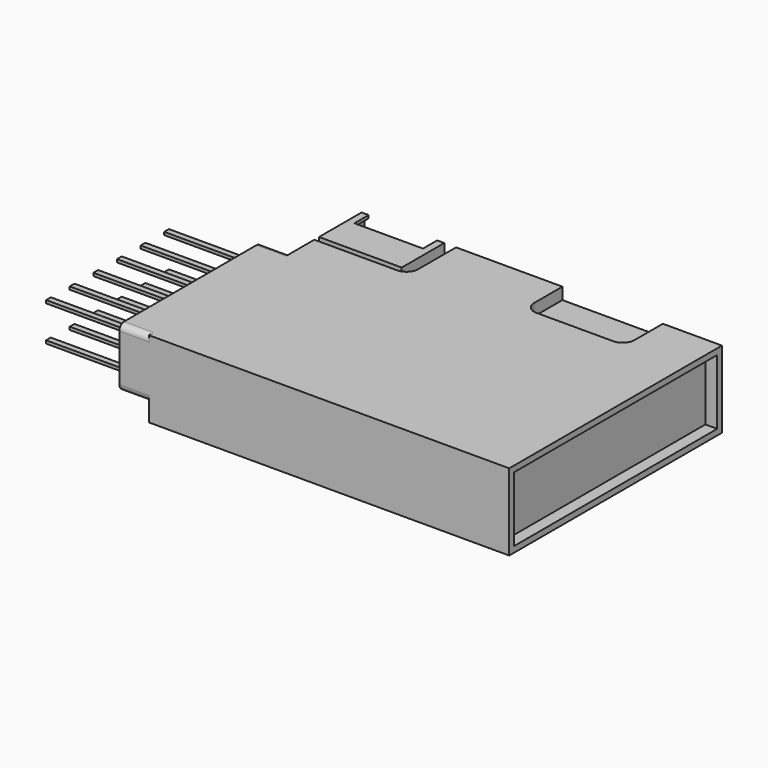
from build123d import *

# Parameters (mm, degrees)
F0_W      = 30.5
F0_H      = 22.5
F1_DEPTH  = 6.5
F3_DEPTH  = 3
F4_W      = 7
F4_H      = 4.5
F5_DEPTH  = 3
F6_W      = 6.5
F6_H      = 2.5
F7_DEPTH  = 3.75
F8_W      = 5.8
F8_H      = 1.5
F9_DEPTH  = 0.5
F11_DEPTH = 1
F13_DEPTH = 2.5
F14_W     = 0.5
F14_H     = 0.25
F15_DEPTH = 7
F16_W     = 21.5
F16_H     = 5.5
F17_DEPTH = 1


with BuildPart() as f1:
    # F0 (on Top) → F1 (new body)
    with BuildSketch(Plane.XY):
        Rectangle(F0_W, F0_H)
    extrude(amount=F1_DEPTH)

    # F2 (on face) → F3 (cut)
    with BuildSketch(Plane.XY.offset(6.5)):
        with BuildLine():
            Line((-7.25, 11.25), (-15.25, 11.25))
            Line((-15.25, 11.25), (-15.25, 6.25))
            Line((-15.25, 6.25), (-8.25, 6.25))
            ThreePointArc((-8.25, 6.25), (-7.542893, 6.542893), (-7.25, 7.25))
            Line((-7.25, 7.25), (-7.25, 11.25))
        make_face()
    extrude(amount=-F3_DEPTH, mode=Mode.SUBTRACT)

    # F4 (on face) → F5 (join)
    with BuildSketch(Plane.XY.offset(3.5)):
        with Locations((-11.75, 9)):
            Rectangle(F4_W, F4_H)
    extrude(amount=F5_DEPTH)

    # F6 (on face) → F7 (cut)
    with BuildSketch(Plane(origin=(0, 11.25, 0), x_dir=(-1, 0, 0), z_dir=(0, 1, 0))):
        with Locations((11.75, 5)):
            Rectangle(F6_W, F6_H)
    extrude(amount=-F7_DEPTH, mode=Mode.SUBTRACT)

    # F8 (on face) → F9 (cut)
    with BuildSketch(Plane.XY.offset(6.5)):
        with Locations((-11.75, 10.5)):
            Rectangle(F8_W, F8_H)
    extrude(amount=-F9_DEPTH, mode=Mode.SUBTRACT)

    # F10 (on face) → F11 (cut)
    with BuildSketch(Plane.XY.offset(6.5)):
        with BuildLine():
            Line((10.25, 11.25), (1.75, 11.25))
            Line((1.75, 11.25), (1.75, 8.25))
            ThreePointArc((1.75, 8.25), (2.042893, 7.542893), (2.75, 7.25))
            Line((2.75, 7.25), (9.25, 7.25))
            ThreePointArc((9.25, 7.25), (9.957107, 7.542893), (10.25, 8.25))
            Line((10.25, 8.25), (10.25, 11.25))
        make_face()
    extrude(amount=-F11_DEPTH, mode=Mode.SUBTRACT)

    # F12 (on face) → F13 (join)
    with BuildSketch(Plane(origin=(-15.25, 0, 0), x_dir=(0, -1, 0), z_dir=(-1, 0, 0))):
        with BuildLine():
            Line((10.75, 6.5), (-3.25, 6.5))
            ThreePointArc((-3.25, 6.5), (-3.603553, 6.353553), (-3.75, 6))
            Line((-3.75, 6), (-3.75, 2))
            ThreePointArc((-3.75, 2), (-3.603553, 1.646447), (-3.25, 1.5))
            Line((-3.25, 1.5), (10.75, 1.5))
            ThreePointArc((10.75, 1.5), (11.103553, 1.646447), (11.25, 2))
            Line((11.25, 2), (11.25, 6))
            ThreePointArc((11.25, 6), (11.103553, 6.353553), (10.75, 6.5))
        make_face()
    extrude(amount=F13_DEPTH)

    # F14 (on face) → F15 (join)
    with BuildSketch(Plane(origin=(-17.75, 0, 0), x_dir=(0, -1, 0), z_dir=(-1, 0, 0))):
        with Locations((-2.5, 5.5)):
            Rectangle(F14_W, F14_H)
        with Locations((-2.5, 2.5)):
            Rectangle(F14_W, F14_H)
        with Locations((0, 5.5)):
            Rectangle(F14_W, F14_H)
        with Locations((0, 2.5)):
            Rectangle(F14_W, F14_H)
        with Locations((2.5, 5.5)):
            Rectangle(F14_W, F14_H)
        with Locations((2.5, 2.5)):
            Rectangle(F14_W, F14_H)
        with Locations((5, 5.5)):
            Rectangle(F14_W, F14_H)
        with Locations((5, 2.5)):
            Rectangle(F14_W, F14_H)
        with Locations((7.5, 5.5)):
            Rectangle(F14_W, F14_H)
        with Locations((7.5, 2.5)):
            Rectangle(F14_W, F14_H)
        with Locations((10, 5.5)):
            Rectangle(F14_W, F14_H)
        with Locations((10, 2.5)):
            Rectangle(F14_W, F14_H)
    extrude(amount=F15_DEPTH)

    # F16 (on face) → F17 (cut)
    with BuildSketch(Plane.YZ.offset(15.25)):
        with Locations((0, 3.25)):
            Rectangle(F16_W, F16_H)
    extrude(amount=-F17_DEPTH, mode=Mode.SUBTRACT)


solid = f1.part
